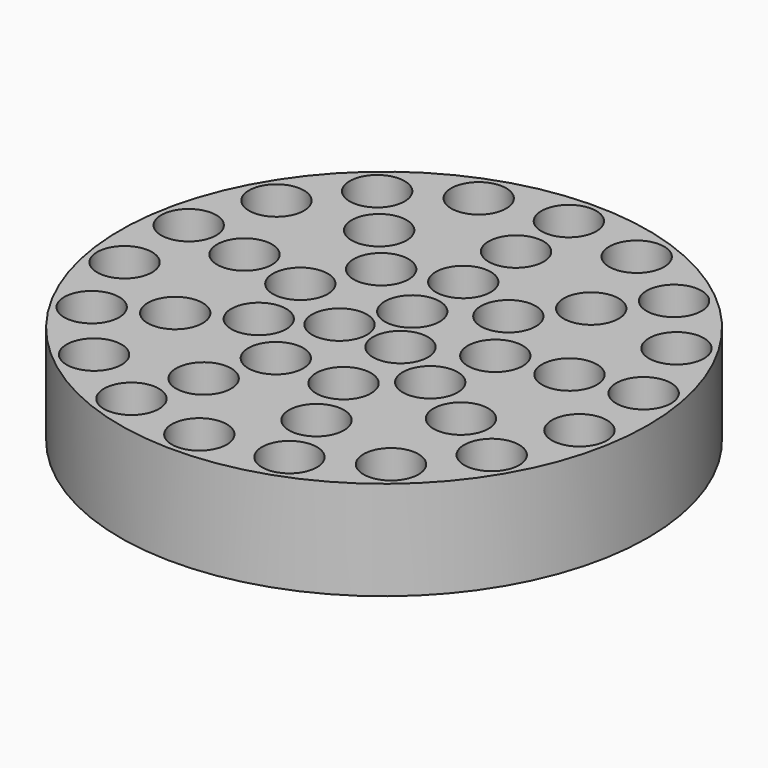
from build123d import *

# Parameters (mm, degrees)
F0_R     = 76.2
F1_DEPTH = 28.575
F2_R     = 7.9375
F3_DEPTH = 25.4


with BuildPart() as f1:
    # F0 (on Top) → F1 (new body)
    with BuildSketch(Plane.XY):
        Circle(F0_R)
    extrude(amount=F1_DEPTH)

    # F2 (on face) → F3 (cut)
    with BuildSketch(Plane.XY.offset(28.575)):
        with Locations((-30.6127599113, 36.4828666035)):
            Circle(F2_R)
        with Locations((-57.7422437973, 33.3375)):
            Circle(F2_R)
        with Locations((-42.8578638759, 51.076013245)):
            Circle(F2_R)
        with Locations((-22.8041930562, 62.6540054909)):
            Circle(F2_R)
        with Locations((0, 66.675)):
            Circle(F2_R)
        with Locations((0, 47.625)):
            Circle(F2_R)
        with Locations((0, 28.575)):
            Circle(F2_R)
        with Locations((-18.3676559468, 21.8897199621)):
            Circle(F2_R)
        with Locations((-28.1408815423, 4.9619966768)):
            Circle(F2_R)
        with Locations((-46.9014692372, 8.2699944614)):
            Circle(F2_R)
        with Locations((-65.6620569321, 11.5779922459)):
            Circle(F2_R)
        with Locations((-65.6620569321, -11.5779922459)):
            Circle(F2_R)
        with Locations((-57.7422437973, -33.3375)):
            Circle(F2_R)
        with Locations((-41.2444598552, -23.8125)):
            Circle(F2_R)
        with Locations((-24.7466759131, -14.2875)):
            Circle(F2_R)
        with Locations((-8.7988181024, -5.08)):
            Circle(F2_R)
        with Locations((-9.7732255955, -26.851716639)):
            Circle(F2_R)
        with Locations((-16.2887093259, -44.7528610649)):
            Circle(F2_R)
        with Locations((-22.8041930562, -62.6540054909)):
            Circle(F2_R)
        with Locations((-42.8578638759, -51.076013245)):
            Circle(F2_R)
        with Locations((0, -66.675)):
            Circle(F2_R)
        with Locations((22.8041930562, -62.6540054909)):
            Circle(F2_R)
        with Locations((16.2887093259, -44.7528610649)):
            Circle(F2_R)
        with Locations((9.7732255955, -26.851716639)):
            Circle(F2_R)
        with Locations((8.7988181024, -5.08)):
            Circle(F2_R)
        with Locations((0, 10.16)):
            Circle(F2_R)
        with Locations((18.3676559468, 21.8897199621)):
            Circle(F2_R)
        with Locations((30.6127599113, 36.4828666035)):
            Circle(F2_R)
        with Locations((42.8578638759, 51.076013245)):
            Circle(F2_R)
        with Locations((22.8041930562, 62.6540054909)):
            Circle(F2_R)
        with Locations((57.7422437973, 33.3375)):
            Circle(F2_R)
        with Locations((65.6620569321, 11.5779922459)):
            Circle(F2_R)
        with Locations((46.9014692372, 8.2699944614)):
            Circle(F2_R)
        with Locations((28.1408815423, 4.9619966768)):
            Circle(F2_R)
        with Locations((24.7466759131, -14.2875)):
            Circle(F2_R)
        with Locations((41.2444598552, -23.8125)):
            Circle(F2_R)
        with Locations((65.6620569321, -11.5779922459)):
            Circle(F2_R)
        with Locations((57.7422437973, -33.3375)):
            Circle(F2_R)
        with Locations((42.8578638759, -51.076013245)):
            Circle(F2_R)
    extrude(amount=-F3_DEPTH, mode=Mode.SUBTRACT)


solid = f1.part
